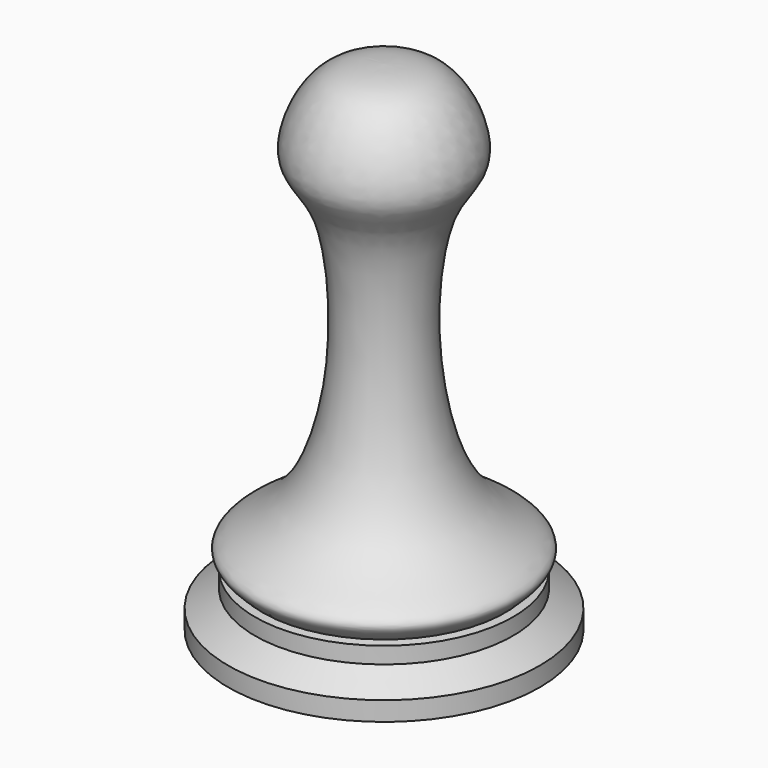
from build123d import *


with BuildPart() as f1:
    # F0 (on Front) → F1 (revolve)
    with BuildSketch(Plane.XZ):
        with BuildLine():
            Line((0, -85.5011006718), (0, 117.6988993282))
            add(Edge.make_bspline(
                [(0, 117.6988993282), (-8.0877623554, 117.4185899443), (-24.685311322, 117.0019026845), (-39.4944560285, 81.6136430474), (-14.212808755, 67.1164440226), (-16.0300711181, -41.4690902012), (-62.6698995283, -53.3370422795), (-50.209310756, -62.1767465828), (-49.4467201226, -63.2486503315)],
                knots=[0, 0, 0, 0, 0.1393228319, 0.2957041888, 0.4403385337, 0.7281911802, 0.8914628681, 0.976498339, 0.976498339, 0.976498339, 0.976498339], degree=3))
            Line((-49.4467201226, -63.2486503315), (-52.5845202286, -63.8342422322))
            Line((-52.5845202286, -63.8342422322), (-52.5845202286, -70.5685302411))
            Line((-52.5845202286, -70.5685302411), (-63.5, -77.7047072078))
            Line((-63.5, -77.7047072078), (-63.5, -85.5011006718))
            Line((-63.5, -85.5011006718), (0, -85.5011006718))
        make_face()
    revolve(axis=Axis((0, 0, 1.6055280592), (0, 0, 1)))


solid = f1.part
